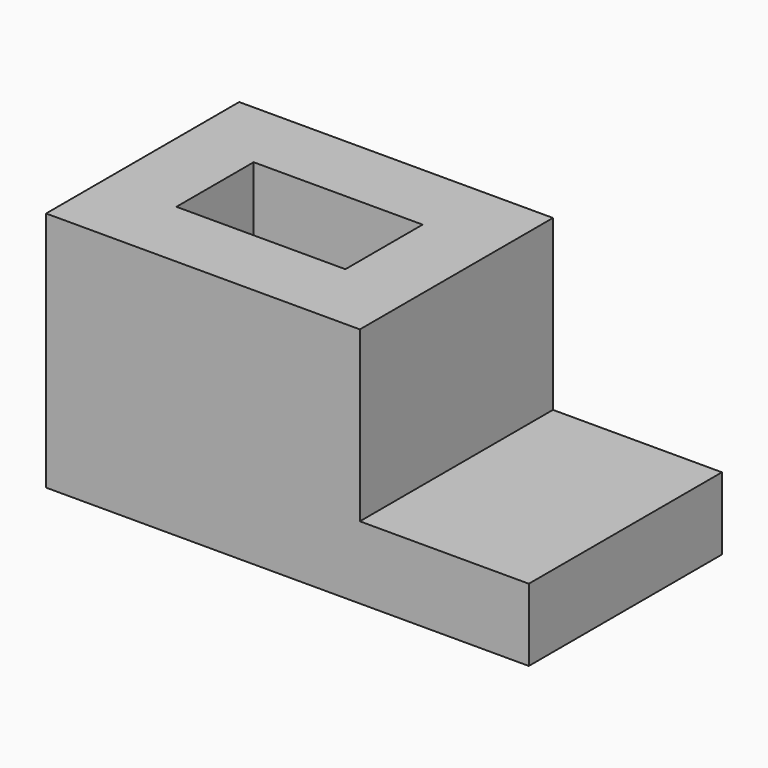
from build123d import *

# Parameters (mm, degrees)
F0_W     = 44.45
F0_H     = 25.4
F0_H_2   = 63.5
F1_DEPTH = 63.5
F2_W     = 44.45
F2_H     = 44.45
F3_DEPTH = 63.501


with BuildPart() as f1:
    # F0 (on Top) → F1 (new body)
    with BuildSketch(Plane.XY):
        Polygon((0, 63.5), (-82.55, 63.5), (-82.55, 0), (-19.05, 0), (0, 0), align=None)
        with Locations((-41.275, 31.75)):
            Rectangle(F0_W, F0_H, mode=Mode.SUBTRACT)
        with Locations((22.225, 31.75)):
            Rectangle(F0_W, F0_H_2)
    extrude(amount=-F1_DEPTH)

    # F2 (on face) → F3 (cut, through all)
    with BuildSketch(Plane.XZ):
        with Locations((22.225, -22.225)):
            Rectangle(F2_W, F2_H)
    extrude(amount=-F3_DEPTH, mode=Mode.SUBTRACT)


solid = f1.part
